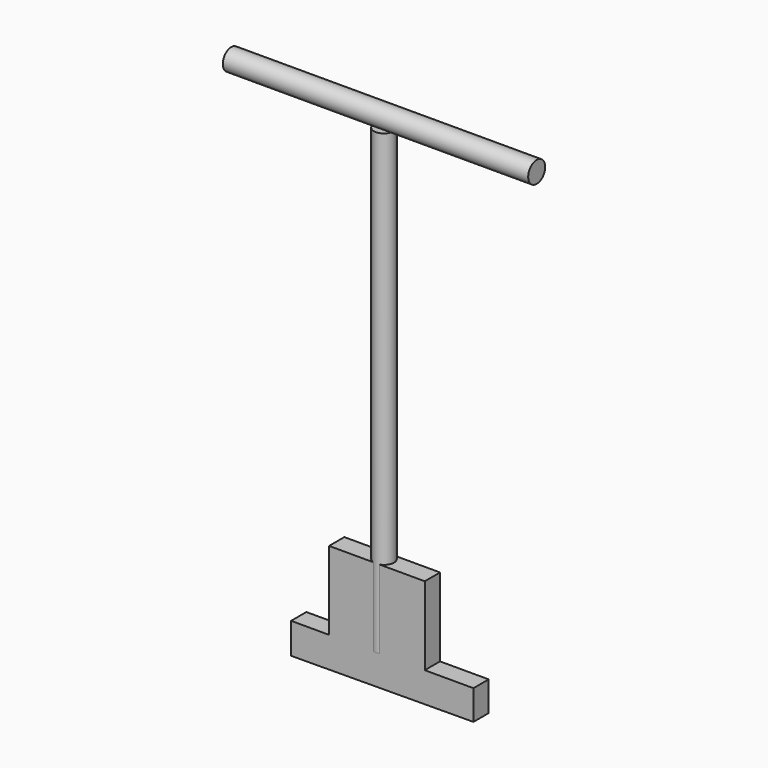
from build123d import *

# Parameters (mm, degrees)
F1_DEPTH = 3.175
F2_R     = 3.334372
F3_DEPTH = 152.4
F4_R     = 3.530314
F5_DEPTH = 50.8


with BuildPart() as f1:
    # F0 (on Front) → F1 (new body, symmetric)
    with BuildSketch(Plane.XZ):
        Polygon((-28.372129, 0), (-28.372129, -10.2515), (32.297498, -9.88215), (32.297498, 0), (16.10476, 0), (16.10476, 26.052793), (-15.728978, 26.052793), (-15.728978, 0), align=None)
    extrude(amount=F1_DEPTH, both=True)

    # F2 (on Top) → F3 (join)
    with BuildSketch(Plane.XY):
        Circle(F2_R)
    extrude(amount=F3_DEPTH)


with BuildPart() as f5:
    # F4 (on Right) → F5 (new body, symmetric)
    with BuildSketch(Plane.YZ):
        with Locations((0, 155.939415)):
            Circle(F4_R)
    extrude(amount=F5_DEPTH, both=True)


solid = Compound([f1.part, f5.part])
